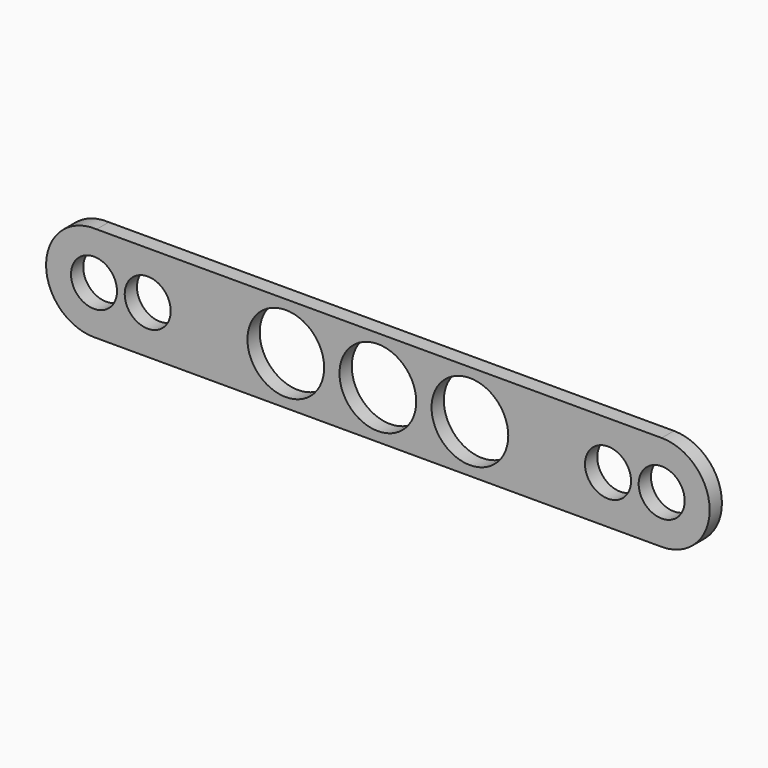
from build123d import *

# Parameters (mm, degrees)
F0_R     = 10
F0_R_2   = 6
F1_DEPTH = 4


with BuildPart() as f1:
    # F0 (on Front) → F1 (new body)
    with BuildSketch(Plane.XZ):
        with BuildLine():
            Line((73.998482, 12.5), (-73.331517, 12.482112))
            ThreePointArc((-73.331517, 12.482112), (-86.497054, 0.271363), (-73.873968, -12.499365))
            Line((-73.873968, -12.499365), (73.999946, -12.5))
            ThreePointArc((73.999946, -12.5), (86.5, 0.000732), (73.998482, 12.5))
        make_face()
        with Locations((-24, 0)):
            Circle(F0_R, mode=Mode.SUBTRACT)
        Circle(F0_R, mode=Mode.SUBTRACT)
        with Locations((24, 0)):
            Circle(F0_R, mode=Mode.SUBTRACT)
        with Locations((-74, 0)):
            Circle(F0_R_2, mode=Mode.SUBTRACT)
        with BuildLine():
            ThreePointArc((-62.705357, 5.355468), (-56.856128, 5.110389), (-54, 0))
            ThreePointArc((-54, 0), (-63.143872, -5.110389), (-62.705357, 5.355468))
        make_face(mode=Mode.SUBTRACT)
        with Locations((60, 0)):
            Circle(F0_R_2, mode=Mode.SUBTRACT)
        with Locations((74, 0)):
            Circle(F0_R_2, mode=Mode.SUBTRACT)
    extrude(amount=F1_DEPTH)


solid = f1.part
